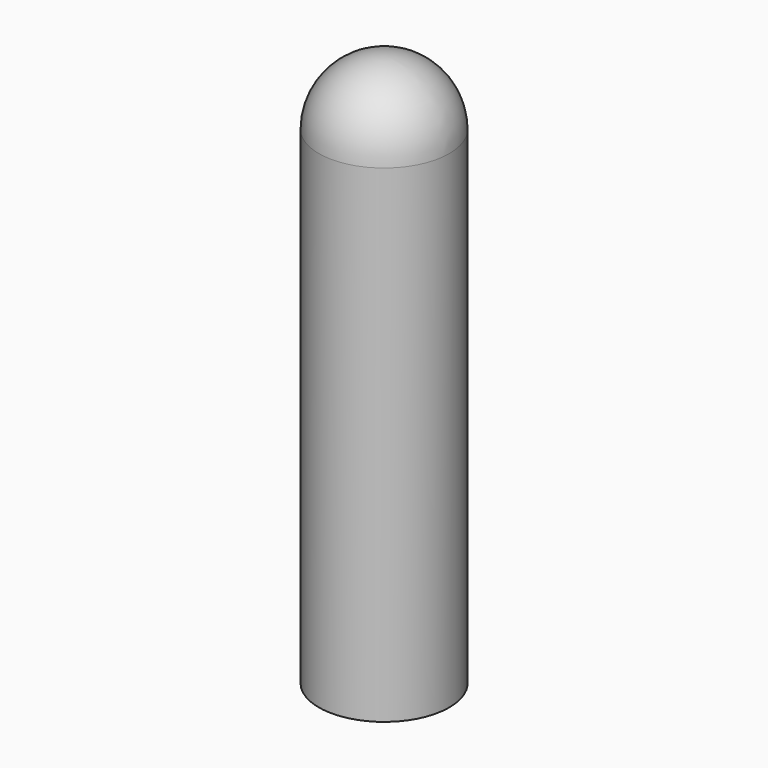
from build123d import *

# Parameters (mm, degrees)
F2_R     = 1.5
F3_DEPTH = 25


with BuildPart() as f1:
    # F0 (on Front) → F1 (revolve)
    with BuildSketch(Plane.XZ):
        with BuildLine():
            Line((1.5, 8), (1.5, 0))
            Line((1.5, 0), (2.95, 0))
            Line((2.95, 0), (2.95, 22.05))
            ThreePointArc((2.95, 22.05), (2.085965, 24.135965), (0, 25))
            Line((0, 25), (0, 8))
            Line((0, 8), (1.5, 8))
        make_face()
    revolve(axis=Axis((0, 0, 16.5), (0, 0, 1)))

    # F2 (on Front) → F3 (cut)
    with BuildSketch(Plane.XZ):
        with Locations((0, 13.5)):
            Circle(F2_R)
    extrude(amount=-F3_DEPTH, mode=Mode.SUBTRACT)


solid = f1.part
